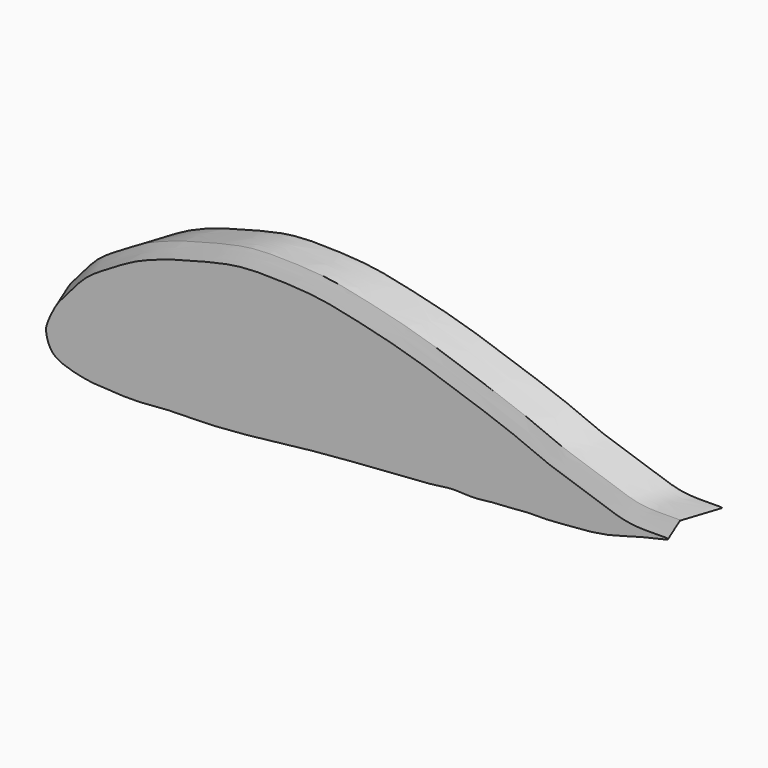
from build123d import *


with BuildPart() as f4:
    # F4: sweep along a path in F3
    with BuildLine(Plane(origin=(3.3817442063, -1.505649527, 0), x_dir=(0.4067366431, 0.9135454576, 0), z_dir=(0.9135454576, -0.4067366431, 0))) as f4_path:
        Line((1.648138595, 0), (39.6770744149, 2.3259493563))
    # F0 (on Front) → F4 (sweep)
    with BuildSketch(Plane.XZ):
        with BuildLine():
            add(Edge.make_bspline(
                [(4.0521025658, 45.312307775), (3.817179807, 48.8109190289), (5.4560303216, 54.5939234812), (14.4395512453, 74.3991399753), (28.5621500841, 88.9055057426), (44.6891826024, 109.1309544218), (70.2219645933, 123.7647514787), (95.8174659102, 139.8299593517), (130.0321246318, 152.0323624362), (163.0598276053, 160.6859751745), (202.0960309733, 170.3922529449), (240.3482782391, 170.136747061), (284.7557476592, 168.1553725645), (323.4114149648, 159.5808948608), (366.5565089836, 149.5999194927), (407.5310268947, 136.7221671864), (448.3548293571, 122.4823093595), (484.4133762739, 109.9471130423), (520.1780894436, 94.575327359), (531.2046740804, 90.1791660895), (580.7123897769, 74.6442790326), (608.7123748579, 63.5885173798), (657.6505176142, 67.4450905185), (630.6186278584, 60.401292216), (610.0941857326, 56.6767504264), (579.6173151936, 45.4071760102), (527.873107455, 43.1518461817), (520.149102908, 41.9855329924), (502.6673634496, 42.8334047862), (481.6008687928, 40.1759640349), (463.0421635132, 39.8433116765), (444.6716903235, 36.6994710401), (423.9935418867, 39.217940704), (403.6121092525, 34.9294397879), (342.3523045427, 31.4370752644), (281.378926959, 26.5722565209), (240.4511536559, 21.4179543595), (201.3965507975, 17.1521282445), (162.5568109185, 14.5746400751), (130.4516672433, 15.3354044685), (97.9635636715, 11.3225826215), (71.3248693167, 12.859285499), (48.2116009505, 13.7527620157), (25.7077460534, 19.0129420094), (8.3792341787, 26.523584965), (4.3726211541, 40.5389518597), (4.0521025658, 45.312307775)],
                knots=[0, 0, 0, 0, 0.0127797277, 0.0317255143, 0.050792247, 0.0717701169, 0.0942741292, 0.1172985649, 0.1422455969, 0.166814584, 0.1930197846, 0.2189522738, 0.2465953192, 0.2729502536, 0.3005920992, 0.3280753227, 0.3553227773, 0.3818671696, 0.406992213, 0.4220255578, 0.4509464931, 0.4768928537, 0.500305464, 0.5156981984, 0.5357613223, 0.560307052, 0.5897796006, 0.601660486, 0.6184412319, 0.6380206197, 0.65597752, 0.673956201, 0.692451696, 0.7112741183, 0.7438169899, 0.7771330408, 0.8037519753, 0.8297804583, 0.8557614923, 0.8794949696, 0.9032567647, 0.9247749956, 0.9448165359, 0.9648362391, 0.9825638848, 1, 1, 1, 1], degree=3))
        make_face()
    sweep(path=f4_path.line)


with BuildPart() as f5_1:
    # F5: instance of F4
    add(f4.part.mirror(Plane.XZ))


solid = Compound([f4.part, f5_1.part])
